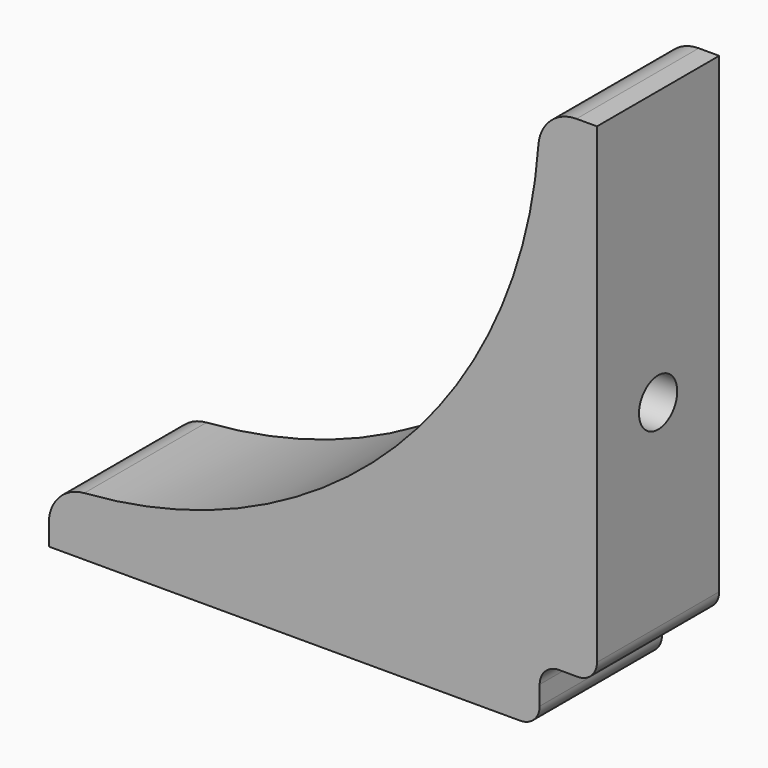
from build123d import *

# Parameters (mm, degrees)
F1_DEPTH = 8
F3_D     = 2.5
F3_DEPTH = 6
F3_TIP   = 0.7510757738
F5_D     = 2.5
F5_DEPTH = 6
F5_TIP   = 0.7510757738
F6_R     = 2
F7_W     = 3
F7_H     = 3
F8_DEPTH = 8.001
F9_R     = 1


with BuildPart() as f1:
    # F0 (on Front) → F1 (new body)
    with BuildSketch(Plane.XZ):
        with BuildLine():
            Line((-28.7, 0), (0, 0))
            Line((0, 0), (0, 28.7))
            Line((0, 28.7), (-3, 28.7))
            ThreePointArc((-3, 28.7), (-10.5273557235, 10.5273557235), (-28.7, 3))
            Line((-28.7, 3), (-28.7, 0))
        make_face()
    extrude(amount=F1_DEPTH)

    # F3
    with Locations(Plane.YZ):
        with Locations((-4, 14.35)):
            Hole(F3_D / 2, depth=F3_DEPTH)
            with Locations((0, 0, -(F3_DEPTH + F3_TIP / 2))):  # 118° drill point
                Cone(0, F3_D / 2, F3_TIP, mode=Mode.SUBTRACT)

    # F5
    with Locations(Plane(origin=(0, 0, 0), x_dir=(1, 0, 0), z_dir=(0, 0, -1))):
        with Locations((-14.35, 4)):
            Hole(F5_D / 2, depth=F5_DEPTH)
            with Locations((0, 0, -(F5_DEPTH + F5_TIP / 2))):  # 118° drill point
                Cone(0, F5_D / 2, F5_TIP, mode=Mode.SUBTRACT)

    # F6
    f6_edges = [f1.edges().sort_by_distance(p)[0] for p in [
        (-3, -4, 28.7),
        (-28.7, -4, 3),
    ]]
    fillet(f6_edges, radius=F6_R)

    # F7 (on face) → F8 (cut, through all)
    with BuildSketch(Plane.XZ.offset(8)):
        with Locations((-1.5, 1.5)):
            Rectangle(F7_W, F7_H)
    extrude(amount=-F8_DEPTH, mode=Mode.SUBTRACT)

    # F9
    f9_edges = [f1.edges().sort_by_distance(p)[0] for p in [
        (0, -4, 3),
        (-3, -4, 3),
        (-3, -4, 0),
    ]]
    fillet(f9_edges, radius=F9_R)


solid = f1.part
